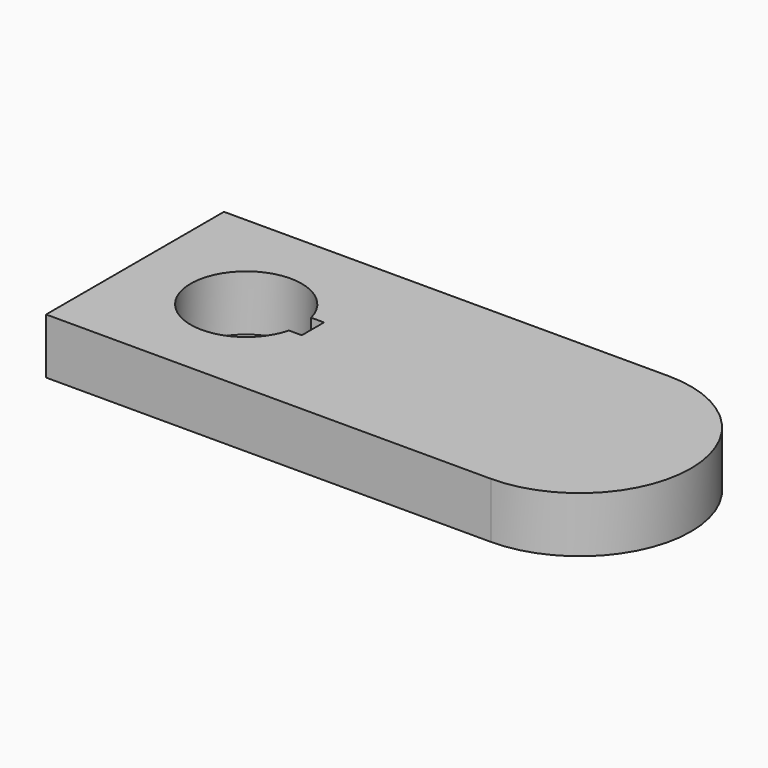
from build123d import *

# Parameters (mm, degrees)
F1_DEPTH = 10


with BuildPart() as f1:
    # F0 (on Top) → F1 (new body)
    with BuildSketch(Plane.XY):
        with BuildLine():
            Line((0, 40), (0, 0))
            Line((0, 0), (80, 0))
            ThreePointArc((80, 0), (100, 20), (80, 40))
            Line((80, 40), (0, 40))
        make_face()
        with BuildLine():
            ThreePointArc((29.682458, 17.5), (10, 20), (29.682458, 22.5))
            Line((29.682458, 22.5), (32, 22.5))
            Line((32, 22.5), (32, 17.5))
            Line((32, 17.5), (29.682458, 17.5))
        make_face(mode=Mode.SUBTRACT)
    extrude(amount=-F1_DEPTH)


solid = f1.part
